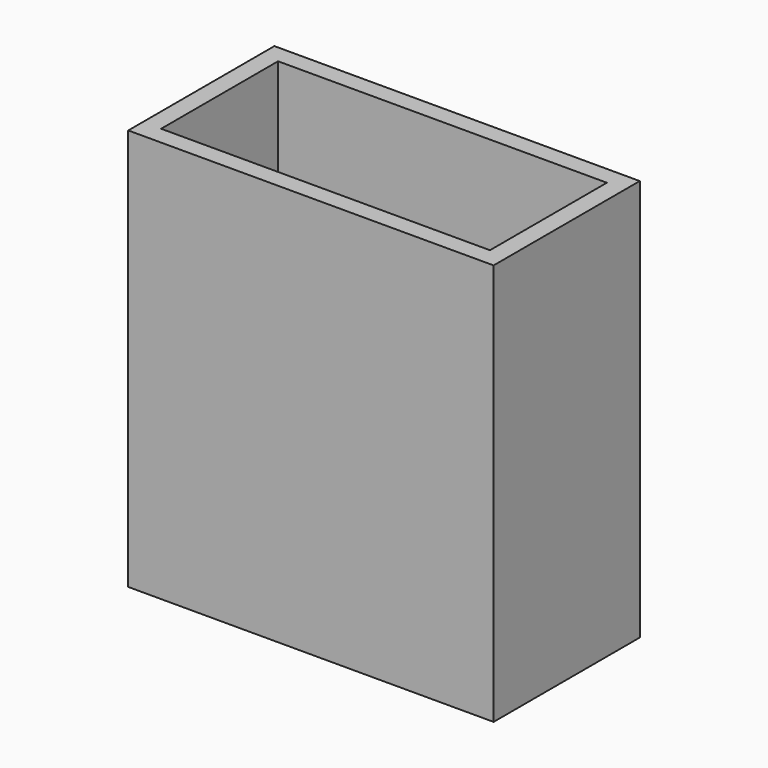
from build123d import *

# Parameters (mm, degrees)
F0_W     = 25.4
F0_H     = 12.7
F0_W_2   = 22.86
F0_H_2   = 10.16
F1_DEPTH = 25.4
F2_DEPTH = 2.54


with BuildPart() as f1:
    # F0 (on Top) → F1 (new body)
    with BuildSketch(Plane.XY):
        Rectangle(F0_W, F0_H)
        Rectangle(F0_W_2, F0_H_2, mode=Mode.SUBTRACT)
    extrude(amount=F1_DEPTH)

    # F0 (on Top) → F2 (join)
    with BuildSketch(Plane.XY):
        Rectangle(F0_W, F0_H)
        Rectangle(F0_W_2, F0_H_2, mode=Mode.SUBTRACT)
        Rectangle(F0_W_2, F0_H_2)
    extrude(amount=-F2_DEPTH)


solid = f1.part
